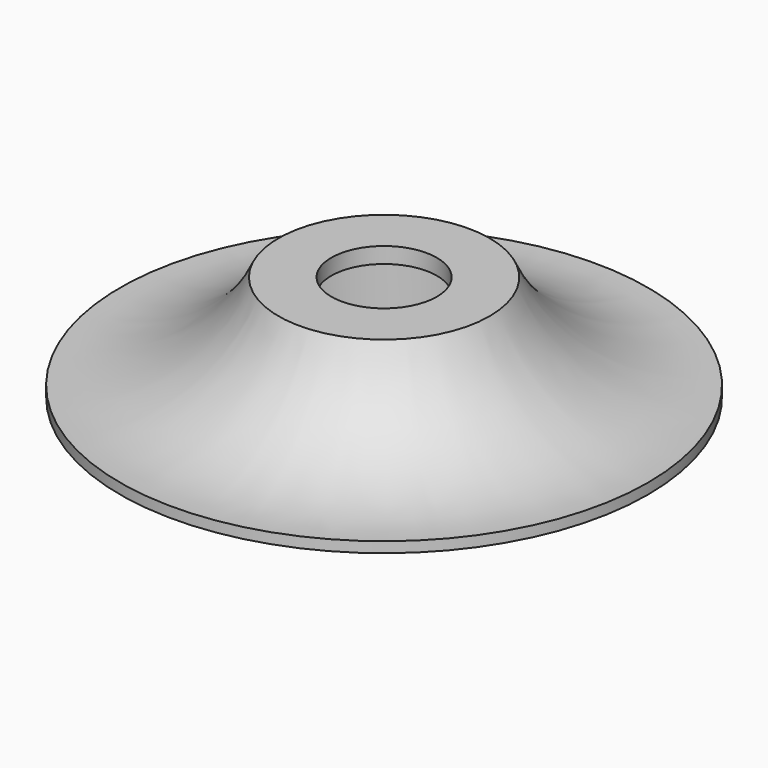
from build123d import *

# Parameters (mm, degrees)
F2_R     = 10
F3_DEPTH = 20.001
F4_R     = 21
F4_R_2   = 10
F5_DEPTH = 17


with BuildPart() as f1:
    # F0 (on Front) → F1 (revolve)
    with BuildSketch(Plane.XZ):
        with BuildLine():
            Line((0, 20), (0, 0))
            Line((0, 0), (50, 0))
            Line((50, 0), (50, 2))
            ThreePointArc((50, 2), (32.104477, 6.174129), (20, 20))
            Line((20, 20), (0, 20))
        make_face()
    revolve(axis=Axis((0, 0, 10), (0, 0, 1)))

    # F2 (on face) → F3 (cut, through all)
    with BuildSketch(Plane.XY.offset(20)):
        Circle(F2_R)
    extrude(amount=-F3_DEPTH, mode=Mode.SUBTRACT)

    # F4 (on face) → F5 (cut)
    with BuildSketch(Plane(origin=(0, 0, 0), x_dir=(1, 0, 0), z_dir=(0, 0, -1))):
        Circle(F4_R)
        Circle(F4_R_2, mode=Mode.SUBTRACT)
    extrude(amount=-F5_DEPTH, mode=Mode.SUBTRACT)


solid = f1.part
